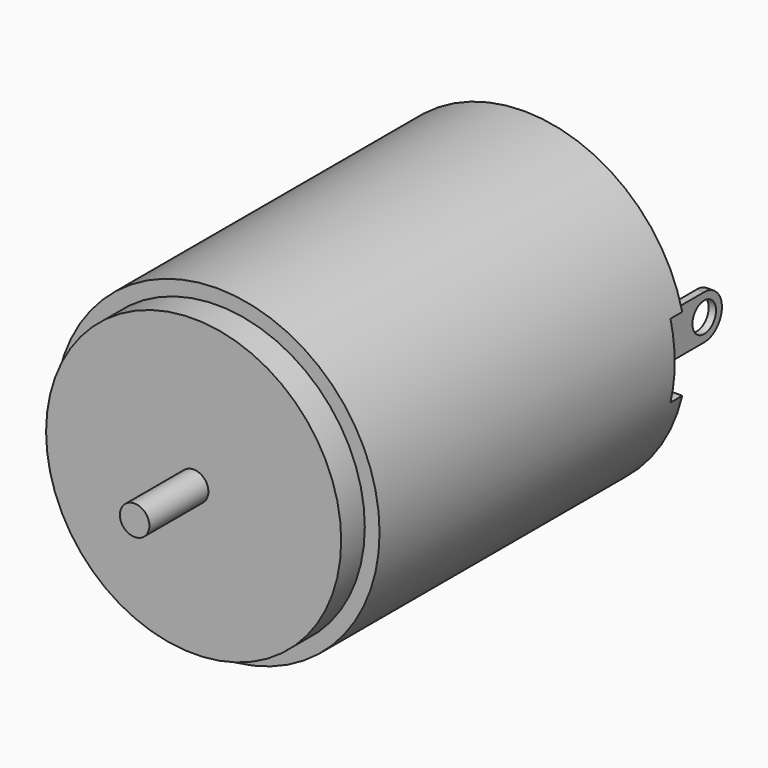
from build123d import *

# Parameters (mm, degrees)
F0_R      = 11
F1_DEPTH  = 26
F2_R      = 10
F3_DEPTH  = 2
F4_R      = 1
F5_DEPTH  = 5
F7_DEPTH  = 1
F9_DEPTH  = 1
F10_R     = 3
F11_DEPTH = 2
F12_R     = 2
F12_R_2   = 1
F13_DEPTH = 5
F14_DEPTH = 1
F15_R     = 0.5
F16_DEPTH = 5
F17_W     = 0.5
F17_H     = 5
F18_DEPTH = 1.5
F19_W     = 0.5
F19_H     = 3
F20_DEPTH = 5
F21_W     = 0.5
F21_H     = 5
F22_DEPTH = 1.5
F23_W     = 0.5
F23_H     = 3
F24_DEPTH = 5
F26_DEPTH = 20.001
F27_DEPTH = 20.001
F25_R     = 1
F28_DEPTH = 20.001


with BuildPart() as f1:
    # F0 (on Front) → F1 (new body)
    with BuildSketch(Plane.XZ):
        Circle(F0_R)
    extrude(amount=F1_DEPTH)

    # F2 (on face) → F3 (join)
    with BuildSketch(Plane.XZ.offset(26)):
        Circle(F2_R)
    extrude(amount=F3_DEPTH)

    # F4 (on face) → F5 (join)
    with BuildSketch(Plane.XZ.offset(28)):
        Circle(F4_R)
    extrude(amount=F5_DEPTH)

    # F6 (on face) → F7 (cut)
    with BuildSketch(Plane(origin=(0, 0, 0), x_dir=(-1, 0, 0), z_dir=(0, 1, 0))):
        with BuildLine():
            Line((-10.7121426428, -2.5), (-5.837165408, -2.5))
            ThreePointArc((-5.837165408, -2.5), (0, -6.35), (5.837165408, -2.5))
            Line((5.837165408, -2.5), (10.7121426428, -2.5))
            ThreePointArc((10.7121426428, -2.5), (10.9277987049, -1.258258902), (11, 0))
            ThreePointArc((11, 0), (10.9277987049, 1.258258902), (10.7121426428, 2.5))
            Line((10.7121426428, 2.5), (5.837165408, 2.5))
            ThreePointArc((5.837165408, 2.5), (0, 6.35), (-5.837165408, 2.5))
            Line((-5.837165408, 2.5), (-10.7121426428, 2.5))
            ThreePointArc((-10.7121426428, 2.5), (-11, 0), (-10.7121426428, -2.5))
        make_face()
    extrude(amount=-F7_DEPTH, mode=Mode.SUBTRACT)

    # F8 (on face) → F9 (join)
    with BuildSketch(Plane(origin=(0, -1, 0), x_dir=(-1, 0, 0), z_dir=(0, 1, 0))):
        with BuildLine():
            Line((-1, 6.2707655035), (-1, 3.8729833462))
            ThreePointArc((-1, 3.8729833462), (-4, 0), (-1, -3.8729833462))
            Line((-1, -3.8729833462), (-1, -6.2707655035))
            ThreePointArc((-1, -6.2707655035), (0, -6.35), (1, -6.2707655035))
            Line((1, -6.2707655035), (1, -3.8729833462))
            ThreePointArc((1, -3.8729833462), (4, 0), (1, 3.8729833462))
            Line((1, 3.8729833462), (1, 6.2707655035))
            ThreePointArc((1, 6.2707655035), (0, 6.35), (-1, 6.2707655035))
        make_face()
    extrude(amount=F9_DEPTH)

    # F10 (on face) → F11 (join)
    with BuildSketch(Plane(origin=(0, 0, 0), x_dir=(-1, 0, 0), z_dir=(0, 1, 0))):
        Circle(F10_R)
    extrude(amount=F11_DEPTH)

    # F12 (on face) → F13 (cut)
    with BuildSketch(Plane(origin=(0, 2, 0), x_dir=(-1, 0, 0), z_dir=(0, 1, 0))):
        Circle(F12_R)
        Circle(F12_R_2, mode=Mode.SUBTRACT)
    extrude(amount=-F13_DEPTH, mode=Mode.SUBTRACT)

    # F14 (add): a face of the model
    f14_faces = [f1.faces().sort_by_distance(p)[0] for p in [
        (0, 2, 0),
    ]]
    extrude(f14_faces, amount=F14_DEPTH)

    # F15 (on face) → F16 (cut)
    with BuildSketch(Plane(origin=(0, 0, 0), x_dir=(-1, 0, 0), z_dir=(0, 1, 0))):
        with Locations((0, -5)):
            Circle(F15_R)
    extrude(amount=-F16_DEPTH, mode=Mode.SUBTRACT)

    # F17 (on face) → F18 (join)
    with BuildSketch(Plane(origin=(0, -1, 0), x_dir=(-1, 0, 0), z_dir=(0, 1, 0))):
        with Locations((-8.75, 0)):
            Rectangle(F17_W, F17_H)
    extrude(amount=F18_DEPTH)

    # F19 (on face) → F20 (join)
    with BuildSketch(Plane(origin=(0, 0.5, 0), x_dir=(-1, 0, 0), z_dir=(0, 1, 0))):
        with Locations((-8.75, 0)):
            Rectangle(F19_W, F19_H)
    extrude(amount=F20_DEPTH)

    # F21 (on face) → F22 (join)
    with BuildSketch(Plane(origin=(0, -1, 0), x_dir=(-1, 0, 0), z_dir=(0, 1, 0))):
        with Locations((9, 0)):
            Rectangle(F21_W, F21_H)
    extrude(amount=F22_DEPTH)

    # F23 (on face) → F24 (join)
    with BuildSketch(Plane(origin=(0, 0.5, 0), x_dir=(-1, 0, 0), z_dir=(0, 1, 0))):
        with Locations((9, 0)):
            Rectangle(F23_W, F23_H)
    extrude(amount=F24_DEPTH)

    # F25 (on face) → F26 (cut, through all)
    with BuildSketch(Plane.YZ.offset(9)):
        with BuildLine():
            ThreePointArc((4, 1.5), (5.0606601718, 1.0606601718), (5.5, 0))
            Line((5.5, 0), (5.5, 1.5))
            Line((5.5, 1.5), (4, 1.5))
        make_face()
    extrude(amount=-F26_DEPTH, mode=Mode.SUBTRACT)

    # F25 (on face) → F27 (cut, through all)
    with BuildSketch(Plane.YZ.offset(9)):
        with BuildLine():
            ThreePointArc((5.5, 0), (5.0606601718, -1.0606601718), (4, -1.5))
            Line((4, -1.5), (5.5, -1.5))
            Line((5.5, -1.5), (5.5, 0))
        make_face()
    extrude(amount=-F27_DEPTH, mode=Mode.SUBTRACT)

    # F25 (on face) → F28 (cut, through all)
    with BuildSketch(Plane.YZ.offset(9)):
        with Locations((4, 0)):
            Circle(F25_R)
    extrude(amount=-F28_DEPTH, mode=Mode.SUBTRACT)


solid = f1.part
